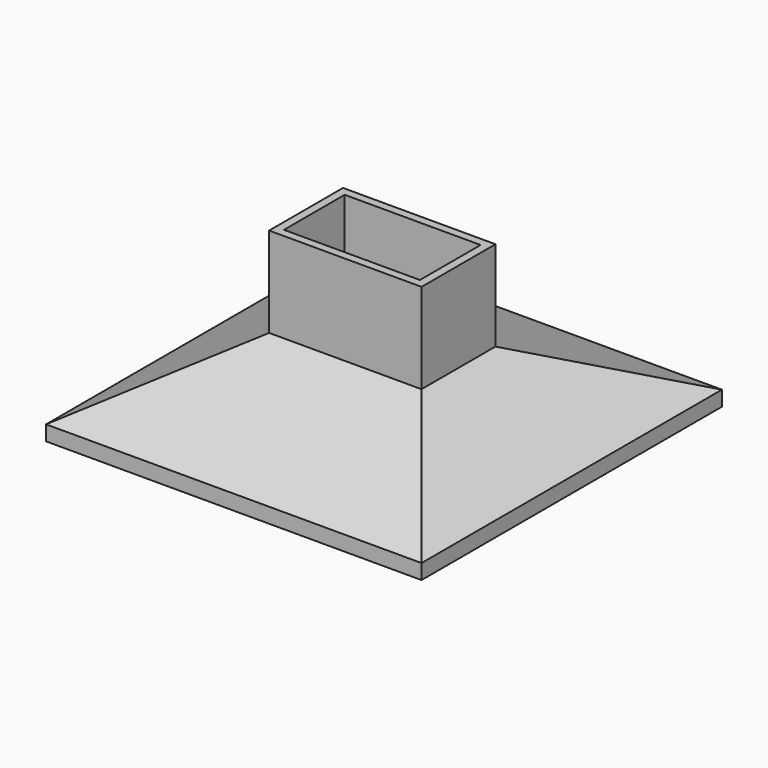
from build123d import *

# Parameters (mm, degrees)
F0_W     = 50
F0_H     = 50
F0_W_2   = 48
F0_H_2   = 48
F1_DEPTH = 2
F0_R     = 0.55
F0_R_2   = 23
F2_DEPTH = 1
F5_DEPTH = 12


with BuildPart() as f1:
    # F0 (on Top) → F1 (new body)
    with BuildSketch(Plane.XY):
        with Locations((0, -0.350917)):
            Rectangle(F0_W, F0_H)
        with Locations((0, -0.350917)):
            Rectangle(F0_W_2, F0_H_2, mode=Mode.SUBTRACT)
    extrude(amount=F1_DEPTH)

    # F0 (on Top) → F2 (join)
    with BuildSketch(Plane.XY):
        with Locations((0, -0.350917)):
            Rectangle(F0_W_2, F0_H_2)
        with Locations((-21, -21.350917)):
            Circle(F0_R, mode=Mode.SUBTRACT)
        with Locations((21, -21.350917)):
            Circle(F0_R, mode=Mode.SUBTRACT)
        with Locations((-21, 20.649083)):
            Circle(F0_R, mode=Mode.SUBTRACT)
        with Locations((0, -0.350917)):
            Circle(F0_R_2, mode=Mode.SUBTRACT)
        with Locations((21, 20.649083)):
            Circle(F0_R, mode=Mode.SUBTRACT)
    extrude(amount=F2_DEPTH)


with BuildPart() as f5:
    # F4 (on offset) → F5 (new body)
    with BuildSketch(Plane.XY.offset(10)):
        Polygon((10.15, 5.511968), (9.05, 4.411968), (9.05, -5.688032), (10.15, -6.788032), align=None)
        Polygon((-9.05, 4.411968), (9.05, 4.411968), (10.15, 5.511968), (-10.15, 5.511968), align=None)
        Polygon((-9.05, -5.688032), (-9.05, 4.411968), (-10.15, 5.511968), (-10.15, -6.788032), align=None)
        Polygon((10.15, -6.788032), (9.05, -5.688032), (-9.05, -5.688032), (-10.15, -6.788032), align=None)
    extrude(amount=F5_DEPTH)


with BuildPart() as f7:
    # F4 (on offset) → F7 section 0
    with BuildSketch(Plane.XY.offset(10)):
        Polygon((-9.05, 4.411968), (9.05, 4.411968), (10.15, 5.511968), (-10.15, 5.511968), align=None)
    # F6 (on face) → F7 section 1
    with BuildSketch(Plane.XY.offset(2)):
        Polygon((-25, 24.649083), (-24, 23.649083), (24, 23.649083), (25, 24.649083), align=None)
    loft()


with BuildPart() as f8:
    # F6 (on face) → F8 section 0
    with BuildSketch(Plane.XY.offset(2)):
        Polygon((24, -24.350917), (-24, -24.350917), (-25, -25.350917), (25, -25.350917), align=None)
    # F4 (on offset) → F8 section 1
    with BuildSketch(Plane.XY.offset(10)):
        Polygon((10.15, -6.788032), (9.05, -5.688032), (-9.05, -5.688032), (-10.15, -6.788032), align=None)
    loft()


with BuildPart() as f9:
    # F4 (on offset) → F9 section 0
    with BuildSketch(Plane.XY.offset(10)):
        Polygon((10.15, 5.511968), (9.05, 4.411968), (9.05, -5.688032), (10.15, -6.788032), align=None)
    # F6 (on face) → F9 section 1
    with BuildSketch(Plane.XY.offset(2)):
        Polygon((24, 23.649083), (24, -24.350917), (25, -25.350917), (25, 24.649083), align=None)
    loft()


with BuildPart() as f10:
    # F4 (on offset) → F10 section 0
    with BuildSketch(Plane.XY.offset(10)):
        Polygon((-9.05, -5.688032), (-9.05, 4.411968), (-10.15, 5.511968), (-10.15, -6.788032), align=None)
    # F6 (on face) → F10 section 1
    with BuildSketch(Plane.XY.offset(2)):
        Polygon((-25, -25.350917), (-24, -24.350917), (-24, 23.649083), (-25, 24.649083), align=None)
    loft()


solid = Compound([f1.part, f5.part, f7.part, f8.part, f9.part, f10.part])
